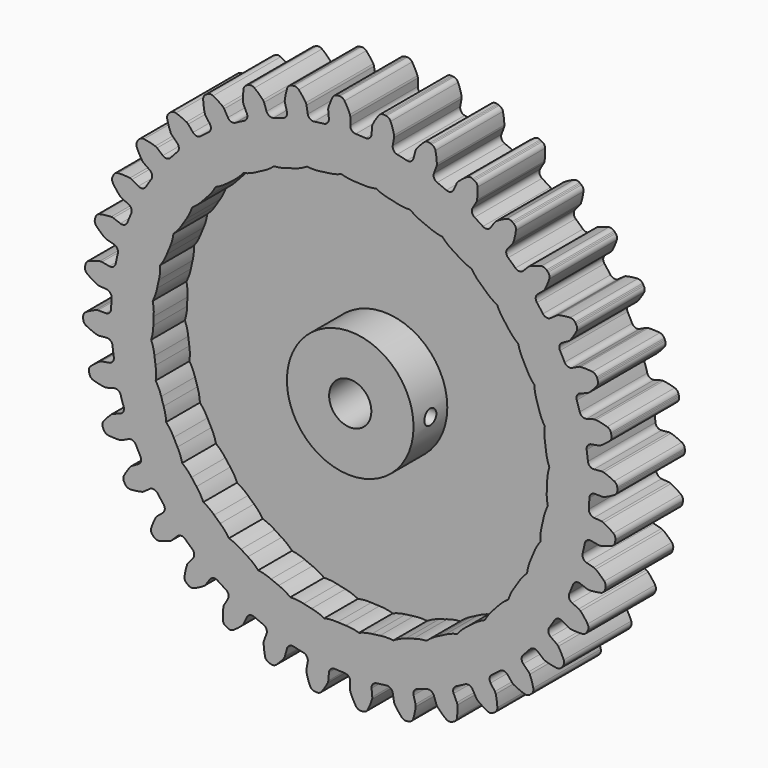
from build123d import *

# Parameters (mm, degrees)
F1_DEPTH = 12.7
F2_R     = 3.175
F3_DEPTH = 25.4
F4_T     = -6.35
F6_R     = 1.1303
F7_DEPTH = 9.525


with BuildPart() as f1:
    # F0 (on Front) → F1 (new body)
    with BuildSketch(Plane.XZ):
        with BuildLine():
            ThreePointArc((-3.2120801998, 36.6749702764), (-3.3974769304, 36.0684054215), (-3.9546626099, 35.765359238))
            ThreePointArc((-3.9546626099, 35.765359238), (-4.6967674834, 35.6754909284), (-5.4368453766, 35.5702261748))
            ThreePointArc((-5.4368453766, 35.5702261748), (-6.0534795383, 35.7187360446), (-6.389549565, 36.2566484984))
            Line((-6.389549565, 36.2566484984), (-6.5801038088, 37.3639547249))
            ThreePointArc((-6.5801038088, 37.3639547249), (-6.623115967, 37.5208300511), (-6.6956184881, 37.6664435743))
            ThreePointArc((-6.6956184881, 37.6664435743), (-7.1899476026, 38.3815935988), (-7.7474230194, 39.0486932845))
            ThreePointArc((-7.7474230194, 39.0486932845), (-8.1070425479, 39.2797993226), (-8.5338610146, 39.3035101356))
            Line((-8.5338610146, 39.3035101356), (-8.705568784, 39.2682831434))
            Line((-8.705568784, 39.2682831434), (-8.8760764428, 39.2276428016))
            ThreePointArc((-8.8760764428, 39.2276428016), (-9.2528847203, 39.0257722288), (-9.4811410672, 38.6643372468))
            ThreePointArc((-9.4811410672, 38.6643372468), (-9.704456869, 37.8241403153), (-9.8502357345, 36.9670817681))
            ThreePointArc((-9.8502357345, 36.9670817681), (-9.8544063999, 36.8044702087), (-9.8270902762, 36.6441151555))
            Line((-9.8270902762, 36.6441151555), (-9.5318232385, 35.5600231964))
            ThreePointArc((-9.5318232385, 35.5600231964), (-9.6090744945, 34.9304796203), (-10.105171854, 34.5352831113))
            ThreePointArc((-10.105171854, 34.5352831113), (-10.8203970188, 34.3179149444), (-11.5309524332, 34.0857362215))
            ThreePointArc((-11.5309524332, 34.0857362215), (-12.1640070047, 34.1249124941), (-12.58837889, 34.5962949014))
            Line((-12.58837889, 34.5962949014), (-12.968319895, 35.653689261))
            ThreePointArc((-12.968319895, 35.653689261), (-13.0379197163, 35.8007123156), (-13.1346062842, 35.9315237115))
            ThreePointArc((-13.1346062842, 35.9315237115), (-13.7456099271, 36.5499696504), (-14.4104566845, 37.1101300027))
            ThreePointArc((-14.4104566845, 37.1101300027), (-14.8047439267, 37.275277745), (-15.2291954012, 37.2245120884))
            Line((-15.2291954012, 37.2245120884), (-15.3921774409, 37.1600035322))
            Line((-15.3921774409, 37.1600035322), (-15.5530375839, 37.0903722643))
            ThreePointArc((-15.5530375839, 37.0903722643), (-15.8890668398, 36.8261364883), (-16.051092934, 36.4305562172))
            ThreePointArc((-16.051092934, 36.4305562172), (-16.1251174009, 35.564345383), (-16.119854903, 34.6949932465))
            ThreePointArc((-16.119854903, 34.6949932465), (-16.0957250057, 34.5341278937), (-16.0409785125, 34.3809523891))
            Line((-16.0409785125, 34.3809523891), (-15.5619466515, 33.3646028059))
            ThreePointArc((-15.5619466515, 33.3646028059), (-15.5287051926, 32.7312088715), (-15.9486405649, 32.255869883))
            ThreePointArc((-15.9486405649, 32.255869883), (-16.6152542662, 31.9176064805), (-17.2746973352, 31.5655684212))
            ThreePointArc((-17.2746973352, 31.5655684212), (-17.9049372736, 31.4942207456), (-18.4047166923, 31.8847503904))
            Line((-18.4047166923, 31.8847503904), (-18.9625001434, 32.8601044906))
            ThreePointArc((-18.9625001434, 32.8601044906), (-19.0565728726, 32.9928080524), (-19.1745057147, 33.104842683))
            ThreePointArc((-19.1745057147, 33.104842683), (-19.8836188497, 33.6077933693), (-20.6356359153, 34.0439941993))
            ThreePointArc((-20.6356359153, 34.0439941993), (-21.0526106528, 34.1381657152), (-21.461798392, 34.014466078))
            Line((-21.461798392, 34.014466078), (-21.611102575, 33.9226360175))
            Line((-21.611102575, 33.9226360175), (-21.7574275482, 33.8261295344))
            ThreePointArc((-21.7574275482, 33.8261295344), (-22.0424677037, 33.5075572256), (-22.1333404643, 33.0898511717))
            ThreePointArc((-22.1333404643, 33.0898511717), (-22.0558244003, 32.2239458126), (-21.8996804374, 31.3687149117))
            ThreePointArc((-21.8996804374, 31.3687149117), (-21.847983152, 31.2144835777), (-21.7674697338, 31.0731417821))
            Line((-21.7674697338, 31.0731417821), (-21.1192281902, 30.1554158425))
            ThreePointArc((-21.1192281902, 30.1554158425), (-20.9765040412, 29.5374169039), (-21.3075179025, 28.9963783706))
            ThreePointArc((-21.3075179025, 28.9963783706), (-21.9052654205, 28.5474976948), (-22.4935593, 28.0862967975))
            ThreePointArc((-22.4935593, 28.0862967975), (-23.1018350838, 27.9065930365), (-23.6618364913, 28.2044038732))
            Line((-23.6618364913, 28.2044038732), (-24.3805144205, 29.0680820732))
            ThreePointArc((-24.3805144205, 29.0680820732), (-24.4962017052, 29.1824340118), (-24.6317974919, 29.2722877615))
            ThreePointArc((-24.6317974919, 29.2722877615), (-25.4174740751, 29.644461293), (-26.2338117909, 29.9434488593))
            ThreePointArc((-26.2338117909, 29.9434488593), (-26.6608044573, 29.963782795), (-27.0422954987, 29.770907728))
            Line((-27.0422954987, 29.770907728), (-27.1733852931, 29.6545463732))
            Line((-27.1733852931, 29.6545463732), (-27.3007290862, 29.5340969754))
            ThreePointArc((-27.3007290862, 29.5340969754), (-27.5261193404, 29.1708677923), (-27.5430776445, 28.7437277426))
            ThreePointArc((-27.5430776445, 28.7437277426), (-27.3163763361, 27.9044379549), (-27.0140952634, 27.0893140476))
            ThreePointArc((-27.0140952634, 27.0893140476), (-26.9364013858, 26.9464029736), (-26.8325674022, 26.8211894857))
            Line((-26.8325674022, 26.8211894857), (-26.0348126671, 26.029971828))
            ThreePointArc((-26.0348126671, 26.029971828), (-25.7869424292, 25.4461454703), (-26.0189770909, 24.8558465743))
            ThreePointArc((-26.0189770909, 24.8558465743), (-26.5296961696, 24.3099876374), (-27.0289658477, 23.7536372579))
            ThreePointArc((-27.0289658477, 23.7536372579), (-27.596795325, 23.4710376195), (-28.2000033619, 23.6670808165))
            Line((-28.2000033619, 23.6670808165), (-29.057739104, 24.3928406912))
            ThreePointArc((-29.057739104, 24.3928406912), (-29.1915258447, 24.4853664807), (-29.3406645665, 24.5503091888))
            ThreePointArc((-29.3406645665, 24.5503091888), (-30.1790322126, 24.7803972612), (-31.0348865702, 24.9330869778))
            ThreePointArc((-31.0348865702, 24.9330869778), (-31.4589232095, 24.8789654969), (-31.8011261409, 24.6227754115))
            Line((-31.8011261409, 24.6227754115), (-31.9100184494, 24.4854183432))
            Line((-31.9100184494, 24.4854183432), (-32.0145117858, 24.3446858248))
            ThreePointArc((-32.0145117858, 24.3446858248), (-32.1734037699, 23.9478363022), (-32.115932348, 23.5242406911))
            ThreePointArc((-32.115932348, 23.5242406911), (-31.7469339997, 22.7370678702), (-31.3077004746, 21.9868180841))
            ThreePointArc((-31.3077004746, 21.9868180841), (-31.2063706941, 21.8595695506), (-31.0823710879, 21.7542889191))
            Line((-31.0823710879, 21.7542889191), (-30.1593425355, 21.1136202914))
            ThreePointArc((-30.1593425355, 21.1136202914), (-29.8138576204, 20.581705783), (-29.9398628265, 19.9600824574))
            ThreePointArc((-29.9398628265, 19.9600824574), (-30.3480355252, 19.333830907), (-30.7431109456, 18.6992354701))
            ThreePointArc((-30.7431109456, 18.6992354701), (-31.2532409049, 18.3223266013), (-31.8813274002, 18.4106454852))
            Line((-31.8813274002, 18.4106454852), (-32.8520590888, 18.9764351882))
            ThreePointArc((-32.8520590888, 18.9764351882), (-32.999880243, 19.0443234793), (-33.1580303955, 19.0823818944))
            ThreePointArc((-33.1580303955, 19.0823818944), (-34.0236157276, 19.1633933981), (-34.8929820255, 19.1651458653))
            ThreePointArc((-34.8929820255, 19.1651458653), (-35.3011784989, 19.0382134216), (-35.5936956574, 18.7264925238))
            Line((-35.5936956574, 18.7264925238), (-35.6770818425, 18.572313267))
            Line((-35.6770818425, 18.572313267), (-35.7555497449, 18.4155737144))
            ThreePointArc((-35.7555497449, 18.4155737144), (-35.8431156063, 17.9971619243), (-35.7129606985, 17.58998149))
            ThreePointArc((-35.7129606985, 17.58998149), (-35.2128771384, 16.8788434837), (-34.6500370494, 16.2162637789))
            ThreePointArc((-34.6500370494, 16.2162637789), (-34.5281502199, 16.1085441683), (-34.3877526566, 16.0263952918))
            Line((-34.3877526566, 16.0263952918), (-33.3674960422, 15.5557420862))
            ThreePointArc((-33.3674960422, 15.5557420862), (-32.9348938342, 15.0919013803), (-32.9510409805, 14.4578413354))
            ThreePointArc((-32.9510409805, 14.4578413354), (-33.2442651782, 13.7702255079), (-33.523142174, 13.0766668749))
            ThreePointArc((-33.523142174, 13.0766668749), (-33.9600725748, 12.6169009608), (-34.5939534382, 12.5948120072))
            Line((-34.5939534382, 12.5948120072), (-35.6481858821, 12.9834403045))
            ThreePointArc((-35.6481858821, 12.9834403045), (-35.8055499788, 13.0246283459), (-35.9679062496, 13.0346460824))
            ThreePointArc((-35.9679062496, 13.0346460824), (-36.8344088956, 12.9641195237), (-37.6908718787, 12.8148814936))
            ThreePointArc((-37.6908718787, 12.8148814936), (-38.0708253429, 12.6189948653), (-38.3047687426, 12.2612146368))
            Line((-38.3047687426, 12.2612146368), (-38.3601151572, 12.0948978503))
            Line((-38.3601151572, 12.0948978503), (-38.4101734182, 11.9269137154))
            ThreePointArc((-38.4101734182, 11.9269137154), (-38.4237525125, 11.4996528884), (-38.2248688098, 11.1212596023))
            ThreePointArc((-38.2248688098, 11.1212596023), (-37.6088948238, 10.5077639792), (-36.9395497822, 9.9529865047))
            ThreePointArc((-36.9395497822, 9.9529865047), (-36.8008093735, 9.8680688228), (-36.6482797619, 9.8115477533))
            Line((-36.6482797619, 9.8115477533), (-35.5617950665, 9.5252105293))
            ThreePointArc((-35.5617950665, 9.5252105293), (-35.0552199648, 9.143537191), (-34.9610184283, 8.5163060204))
            ThreePointArc((-34.9610184283, 8.5163060204), (-35.1303846562, 7.7882187749), (-35.2845896911, 7.0567703737))
            ThreePointArc((-35.2845896911, 7.0567703737), (-35.6350446242, 6.5281171692), (-36.2554597064, 6.3962915395))
            Line((-36.2554597064, 6.3962915395), (-37.3611605862, 6.5959501571))
            ThreePointArc((-37.3611605862, 6.5959501571), (-37.5232861971, 6.6091864709), (-37.6849154729, 6.590859145))
            ThreePointArc((-37.6849154729, 6.590859145), (-38.5260071883, 6.3709374378), (-39.3435436623, 6.0752434325))
            ThreePointArc((-39.3435436623, 6.0752434325), (-39.6837094236, 5.8163545355), (-39.8519708127, 5.4233859476))
            Line((-39.8519708127, 5.4233859476), (-39.877595784, 5.2499850827))
            Line((-39.877595784, 5.2499850827), (-39.8977234087, 5.0758604785))
            ThreePointArc((-39.8977234087, 5.0758604785), (-39.836903142, 4.6527327185), (-39.5753336251, 4.3146238692))
            ThreePointArc((-39.5753336251, 4.3146238692), (-38.8621852711, 3.8174113833), (-38.1066729871, 3.3872927719))
            ThreePointArc((-38.1066729871, 3.3872927719), (-37.9552945563, 3.3277571996), (-37.7952674315, 3.2985813012))
            Line((-37.7952674315, 3.2985813012), (-36.6755669429, 3.2052602705))
            ThreePointArc((-36.6755669429, 3.2052602705), (-36.1104109755, 2.9173512511), (-35.9087230223, 2.3160070565))
            ThreePointArc((-35.9087230223, 2.3160070565), (-35.9490851733, 1.5695709554), (-35.9739328053, 0.8224574757))
            ThreePointArc((-35.9739328053, 0.8224574757), (-36.2272638749, 0.2409798407), (-36.8153621776, 0.0034229902))
            Line((-36.8153621776, 0.0034229902), (-37.9389353316, 0.0080454019))
            ThreePointArc((-37.9389353316, 0.0080454019), (-38.1008963519, -0.0070721905), (-38.2568876091, -0.0531877124))
            ThreePointArc((-38.2568876091, -0.0531877124), (-39.0470122478, -0.4158223584), (-39.8007817805, -0.8489878262))
            ThreePointArc((-39.8007817805, -0.8489878262), (-40.0908240744, -1.1630127837), (-40.1882909157, -1.5792295793))
            Line((-40.1882909157, -1.5792295793), (-40.183415842, -1.7544458249))
            Line((-40.183415842, -1.7544458249), (-40.1730012626, -1.9294202105))
            ThreePointArc((-40.1730012626, -1.9294202105), (-40.039629628, -2.3355583807), (-39.7233219543, -2.6231095268))
            ThreePointArc((-39.7233219543, -2.6231095268), (-38.9346678841, -2.9889313258), (-38.1159442163, -3.2813221377))
            ThreePointArc((-38.1159442163, -3.2813221377), (-37.9565273203, -3.3136666422), (-37.7938650256, -3.3146108745))
            Line((-37.7938650256, -3.3146108745), (-36.6749702764, -3.2120801998))
            ThreePointArc((-36.6749702764, -3.2120801998), (-36.0684054215, -3.3974769304), (-35.765359238, -3.9546626099))
            ThreePointArc((-35.765359238, -3.9546626099), (-35.6754909284, -4.6967674834), (-35.5702261748, -5.4368453766))
            ThreePointArc((-35.5702261748, -5.4368453766), (-35.7187360446, -6.0534795383), (-36.2566484984, -6.389549565))
            Line((-36.2566484984, -6.389549565), (-37.3639547249, -6.5801038088))
            ThreePointArc((-37.3639547249, -6.5801038088), (-37.5208300511, -6.623115967), (-37.6664435743, -6.6956184881))
            ThreePointArc((-37.6664435743, -6.6956184881), (-38.3815935988, -7.1899476026), (-39.0486932845, -7.7474230194))
            ThreePointArc((-39.0486932845, -7.7474230194), (-39.2797993226, -8.1070425479), (-39.3035101356, -8.5338610146))
            Line((-39.3035101356, -8.5338610146), (-39.2682831434, -8.705568784))
            Line((-39.2682831434, -8.705568784), (-39.2276428016, -8.8760764428))
            ThreePointArc((-39.2276428016, -8.8760764428), (-39.0257722288, -9.2528847203), (-38.6643372468, -9.4811410672))
            ThreePointArc((-38.6643372468, -9.4811410672), (-37.8241403153, -9.704456869), (-36.9670817681, -9.8502357345))
            ThreePointArc((-36.9670817681, -9.8502357345), (-36.8044702087, -9.8544063999), (-36.6441151555, -9.8270902762))
            Line((-36.6441151555, -9.8270902762), (-35.5600231964, -9.5318232385))
            ThreePointArc((-35.5600231964, -9.5318232385), (-34.9304796203, -9.6090744945), (-34.5352831113, -10.105171854))
            ThreePointArc((-34.5352831113, -10.105171854), (-34.3179149444, -10.8203970188), (-34.0857362215, -11.5309524332))
            ThreePointArc((-34.0857362215, -11.5309524332), (-34.1249124941, -12.1640070047), (-34.5962949014, -12.58837889))
            Line((-34.5962949014, -12.58837889), (-35.653689261, -12.968319895))
            ThreePointArc((-35.653689261, -12.968319895), (-35.8007123156, -13.0379197163), (-35.9315237115, -13.1346062842))
            ThreePointArc((-35.9315237115, -13.1346062842), (-36.5499696504, -13.7456099271), (-37.1101300027, -14.4104566845))
            ThreePointArc((-37.1101300027, -14.4104566845), (-37.275277745, -14.8047439267), (-37.2245120884, -15.2291954012))
            Line((-37.2245120884, -15.2291954012), (-37.1600035322, -15.3921774409))
            Line((-37.1600035322, -15.3921774409), (-37.0903722643, -15.5530375839))
            ThreePointArc((-37.0903722643, -15.5530375839), (-36.8261364883, -15.8890668398), (-36.4305562172, -16.051092934))
            ThreePointArc((-36.4305562172, -16.051092934), (-35.564345383, -16.1251174009), (-34.6949932465, -16.119854903))
            ThreePointArc((-34.6949932465, -16.119854903), (-34.5341278937, -16.0957250057), (-34.3809523891, -16.0409785125))
            Line((-34.3809523891, -16.0409785125), (-33.3646028059, -15.5619466515))
            ThreePointArc((-33.3646028059, -15.5619466515), (-32.7312088715, -15.5287051926), (-32.255869883, -15.9486405649))
            ThreePointArc((-32.255869883, -15.9486405649), (-31.9176064805, -16.6152542662), (-31.5655684212, -17.2746973352))
            ThreePointArc((-31.5655684212, -17.2746973352), (-31.4942207456, -17.9049372736), (-31.8847503904, -18.4047166923))
            Line((-31.8847503904, -18.4047166923), (-32.8601044906, -18.9625001434))
            ThreePointArc((-32.8601044906, -18.9625001434), (-32.9928080524, -19.0565728726), (-33.104842683, -19.1745057147))
            ThreePointArc((-33.104842683, -19.1745057147), (-33.6077933693, -19.8836188497), (-34.0439941993, -20.6356359153))
            ThreePointArc((-34.0439941993, -20.6356359153), (-34.1381657152, -21.0526106528), (-34.014466078, -21.461798392))
            Line((-34.014466078, -21.461798392), (-33.9226360175, -21.611102575))
            Line((-33.9226360175, -21.611102575), (-33.8261295344, -21.7574275482))
            ThreePointArc((-33.8261295344, -21.7574275482), (-33.5075572256, -22.0424677037), (-33.0898511717, -22.1333404643))
            ThreePointArc((-33.0898511717, -22.1333404643), (-32.2239458126, -22.0558244003), (-31.3687149117, -21.8996804374))
            ThreePointArc((-31.3687149117, -21.8996804374), (-31.2144835777, -21.847983152), (-31.0731417821, -21.7674697338))
            Line((-31.0731417821, -21.7674697338), (-30.1554158425, -21.1192281902))
            ThreePointArc((-30.1554158425, -21.1192281902), (-29.5374169039, -20.9765040412), (-28.9963783706, -21.3075179025))
            ThreePointArc((-28.9963783706, -21.3075179025), (-28.5474976948, -21.9052654205), (-28.0862967975, -22.4935593))
            ThreePointArc((-28.0862967975, -22.4935593), (-27.9065930365, -23.1018350838), (-28.2044038732, -23.6618364913))
            Line((-28.2044038732, -23.6618364913), (-29.0680820732, -24.3805144205))
            ThreePointArc((-29.0680820732, -24.3805144205), (-29.1824340118, -24.4962017052), (-29.2722877615, -24.6317974919))
            ThreePointArc((-29.2722877615, -24.6317974919), (-29.644461293, -25.4174740751), (-29.9434488593, -26.2338117909))
            ThreePointArc((-29.9434488593, -26.2338117909), (-29.963782795, -26.6608044573), (-29.770907728, -27.0422954987))
            Line((-29.770907728, -27.0422954987), (-29.6545463732, -27.1733852931))
            Line((-29.6545463732, -27.1733852931), (-29.5340969754, -27.3007290862))
            ThreePointArc((-29.5340969754, -27.3007290862), (-29.1708677923, -27.5261193404), (-28.7437277426, -27.5430776445))
            ThreePointArc((-28.7437277426, -27.5430776445), (-27.9044379549, -27.3163763361), (-27.0893140476, -27.0140952634))
            ThreePointArc((-27.0893140476, -27.0140952634), (-26.9464029736, -26.9364013858), (-26.8211894857, -26.8325674022))
            Line((-26.8211894857, -26.8325674022), (-26.029971828, -26.0348126671))
            ThreePointArc((-26.029971828, -26.0348126671), (-25.4461454703, -25.7869424292), (-24.8558465743, -26.0189770909))
            ThreePointArc((-24.8558465743, -26.0189770909), (-24.3099876374, -26.5296961696), (-23.7536372579, -27.0289658477))
            ThreePointArc((-23.7536372579, -27.0289658477), (-23.4710376195, -27.596795325), (-23.6670808165, -28.2000033619))
            Line((-23.6670808165, -28.2000033619), (-24.3928406912, -29.057739104))
            ThreePointArc((-24.3928406912, -29.057739104), (-24.4853664807, -29.1915258447), (-24.5503091888, -29.3406645665))
            ThreePointArc((-24.5503091888, -29.3406645665), (-24.7803972612, -30.1790322126), (-24.9330869778, -31.0348865702))
            ThreePointArc((-24.9330869778, -31.0348865702), (-24.8789654969, -31.4589232095), (-24.6227754115, -31.8011261409))
            Line((-24.6227754115, -31.8011261409), (-24.4854183432, -31.9100184494))
            Line((-24.4854183432, -31.9100184494), (-24.3446858248, -32.0145117858))
            ThreePointArc((-24.3446858248, -32.0145117858), (-23.9478363022, -32.1734037699), (-23.5242406911, -32.115932348))
            ThreePointArc((-23.5242406911, -32.115932348), (-22.7370678702, -31.7469339997), (-21.9868180841, -31.3077004746))
            ThreePointArc((-21.9868180841, -31.3077004746), (-21.8595695506, -31.2063706941), (-21.7542889191, -31.0823710879))
            Line((-21.7542889191, -31.0823710879), (-21.1136202914, -30.1593425355))
            ThreePointArc((-21.1136202914, -30.1593425355), (-20.581705783, -29.8138576204), (-19.9600824574, -29.9398628265))
            ThreePointArc((-19.9600824574, -29.9398628265), (-19.333830907, -30.3480355252), (-18.6992354701, -30.7431109456))
            ThreePointArc((-18.6992354701, -30.7431109456), (-18.3223266013, -31.2532409049), (-18.4106454852, -31.8813274002))
            Line((-18.4106454852, -31.8813274002), (-18.9764351882, -32.8520590888))
            ThreePointArc((-18.9764351882, -32.8520590888), (-19.0443234793, -32.999880243), (-19.0823818944, -33.1580303955))
            ThreePointArc((-19.0823818944, -33.1580303955), (-19.1633933981, -34.0236157276), (-19.1651458653, -34.8929820255))
            ThreePointArc((-19.1651458653, -34.8929820255), (-19.0382134216, -35.3011784989), (-18.7264925238, -35.5936956574))
            Line((-18.7264925238, -35.5936956574), (-18.572313267, -35.6770818425))
            Line((-18.572313267, -35.6770818425), (-18.4155737144, -35.7555497449))
            ThreePointArc((-18.4155737144, -35.7555497449), (-17.9971619243, -35.8431156063), (-17.58998149, -35.7129606985))
            ThreePointArc((-17.58998149, -35.7129606985), (-16.8788434837, -35.2128771384), (-16.2162637789, -34.6500370494))
            ThreePointArc((-16.2162637789, -34.6500370494), (-16.1085441683, -34.5281502199), (-16.0263952918, -34.3877526566))
            Line((-16.0263952918, -34.3877526566), (-15.5557420862, -33.3674960422))
            ThreePointArc((-15.5557420862, -33.3674960422), (-15.0919013803, -32.9348938342), (-14.4578413354, -32.9510409805))
            ThreePointArc((-14.4578413354, -32.9510409805), (-13.7702255079, -33.2442651782), (-13.0766668749, -33.523142174))
            ThreePointArc((-13.0766668749, -33.523142174), (-12.6169009608, -33.9600725748), (-12.5948120072, -34.5939534382))
            Line((-12.5948120072, -34.5939534382), (-12.9834403045, -35.6481858821))
            ThreePointArc((-12.9834403045, -35.6481858821), (-13.0246283459, -35.8055499788), (-13.0346460824, -35.9679062496))
            ThreePointArc((-13.0346460824, -35.9679062496), (-12.9641195237, -36.8344088956), (-12.8148814936, -37.6908718787))
            ThreePointArc((-12.8148814936, -37.6908718787), (-12.6189948653, -38.0708253429), (-12.2612146368, -38.3047687426))
            Line((-12.2612146368, -38.3047687426), (-12.0948978503, -38.3601151572))
            Line((-12.0948978503, -38.3601151572), (-11.9269137154, -38.4101734182))
            ThreePointArc((-11.9269137154, -38.4101734182), (-11.4996528884, -38.4237525125), (-11.1212596023, -38.2248688098))
            ThreePointArc((-11.1212596023, -38.2248688098), (-10.5077639792, -37.6088948238), (-9.9529865047, -36.9395497822))
            ThreePointArc((-9.9529865047, -36.9395497822), (-9.8680688228, -36.8008093735), (-9.8115477533, -36.6482797619))
            Line((-9.8115477533, -36.6482797619), (-9.5252105293, -35.5617950665))
            ThreePointArc((-9.5252105293, -35.5617950665), (-9.143537191, -35.0552199648), (-8.5163060204, -34.9610184283))
            ThreePointArc((-8.5163060204, -34.9610184283), (-7.7882187749, -35.1303846562), (-7.0567703737, -35.2845896911))
            ThreePointArc((-7.0567703737, -35.2845896911), (-6.5281171692, -35.6350446242), (-6.3962915395, -36.2554597064))
            Line((-6.3962915395, -36.2554597064), (-6.5959501571, -37.3611605862))
            ThreePointArc((-6.5959501571, -37.3611605862), (-6.6091864709, -37.5232861971), (-6.590859145, -37.6849154729))
            ThreePointArc((-6.590859145, -37.6849154729), (-6.3709374378, -38.5260071883), (-6.0752434325, -39.3435436623))
            ThreePointArc((-6.0752434325, -39.3435436623), (-5.8163545355, -39.6837094236), (-5.4233859476, -39.8519708127))
            Line((-5.4233859476, -39.8519708127), (-5.2499850827, -39.877595784))
            Line((-5.2499850827, -39.877595784), (-5.0758604785, -39.8977234087))
            ThreePointArc((-5.0758604785, -39.8977234087), (-4.6527327185, -39.836903142), (-4.3146238692, -39.5753336251))
            ThreePointArc((-4.3146238692, -39.5753336251), (-3.8174113833, -38.8621852711), (-3.3872927719, -38.1066729871))
            ThreePointArc((-3.3872927719, -38.1066729871), (-3.3277571996, -37.9552945563), (-3.2985813012, -37.7952674315))
            Line((-3.2985813012, -37.7952674315), (-3.2052602705, -36.6755669429))
            ThreePointArc((-3.2052602705, -36.6755669429), (-2.9173512511, -36.1104109755), (-2.3160070565, -35.9087230223))
            ThreePointArc((-2.3160070565, -35.9087230223), (-1.5695709554, -35.9490851733), (-0.8224574757, -35.9739328053))
            ThreePointArc((-0.8224574757, -35.9739328053), (-0.2409798407, -36.2272638749), (-0.0034229902, -36.8153621776))
            Line((-0.0034229902, -36.8153621776), (-0.0080454019, -37.9389353316))
            ThreePointArc((-0.0080454019, -37.9389353316), (0.0070721905, -38.1008963519), (0.0531877124, -38.2568876091))
            ThreePointArc((0.0531877124, -38.2568876091), (0.4158223584, -39.0470122478), (0.8489878262, -39.8007817805))
            ThreePointArc((0.8489878262, -39.8007817805), (1.1630127837, -40.0908240744), (1.5792295793, -40.1882909157))
            Line((1.5792295793, -40.1882909157), (1.7544458249, -40.183415842))
            Line((1.7544458249, -40.183415842), (1.9294202105, -40.1730012626))
            ThreePointArc((1.9294202105, -40.1730012626), (2.3355583807, -40.039629628), (2.6231095268, -39.7233219543))
            ThreePointArc((2.6231095268, -39.7233219543), (2.9889313258, -38.9346678841), (3.2813221377, -38.1159442163))
            ThreePointArc((3.2813221377, -38.1159442163), (3.3136666422, -37.9565273203), (3.3146108745, -37.7938650256))
            Line((3.3146108745, -37.7938650256), (3.2120801998, -36.6749702764))
            ThreePointArc((3.2120801998, -36.6749702764), (3.3974769304, -36.0684054215), (3.9546626099, -35.765359238))
            ThreePointArc((3.9546626099, -35.765359238), (4.6967674834, -35.6754909284), (5.4368453766, -35.5702261748))
            ThreePointArc((5.4368453766, -35.5702261748), (6.0534795383, -35.7187360446), (6.389549565, -36.2566484984))
            Line((6.389549565, -36.2566484984), (6.5801038088, -37.3639547249))
            ThreePointArc((6.5801038088, -37.3639547249), (6.623115967, -37.5208300511), (6.6956184881, -37.6664435743))
            ThreePointArc((6.6956184881, -37.6664435743), (7.1899476026, -38.3815935988), (7.7474230194, -39.0486932845))
            ThreePointArc((7.7474230194, -39.0486932845), (8.1070425479, -39.2797993226), (8.5338610146, -39.3035101356))
            Line((8.5338610146, -39.3035101356), (8.705568784, -39.2682831434))
            Line((8.705568784, -39.2682831434), (8.8760764428, -39.2276428016))
            ThreePointArc((8.8760764428, -39.2276428016), (9.2528847203, -39.0257722288), (9.4811410672, -38.6643372468))
            ThreePointArc((9.4811410672, -38.6643372468), (9.704456869, -37.8241403153), (9.8502357345, -36.9670817681))
            ThreePointArc((9.8502357345, -36.9670817681), (9.8544063999, -36.8044702087), (9.8270902762, -36.6441151555))
            Line((9.8270902762, -36.6441151555), (9.5318232385, -35.5600231964))
            ThreePointArc((9.5318232385, -35.5600231964), (9.6090744945, -34.9304796203), (10.105171854, -34.5352831113))
            ThreePointArc((10.105171854, -34.5352831113), (10.8203970188, -34.3179149444), (11.5309524332, -34.0857362215))
            ThreePointArc((11.5309524332, -34.0857362215), (12.1640070047, -34.1249124941), (12.58837889, -34.5962949014))
            Line((12.58837889, -34.5962949014), (12.968319895, -35.653689261))
            ThreePointArc((12.968319895, -35.653689261), (13.0379197163, -35.8007123156), (13.1346062842, -35.9315237115))
            ThreePointArc((13.1346062842, -35.9315237115), (13.7456099271, -36.5499696504), (14.4104566845, -37.1101300027))
            ThreePointArc((14.4104566845, -37.1101300027), (14.8047439267, -37.275277745), (15.2291954012, -37.2245120884))
            Line((15.2291954012, -37.2245120884), (15.3921774409, -37.1600035322))
            Line((15.3921774409, -37.1600035322), (15.5530375839, -37.0903722643))
            ThreePointArc((15.5530375839, -37.0903722643), (15.8890668398, -36.8261364883), (16.051092934, -36.4305562172))
            ThreePointArc((16.051092934, -36.4305562172), (16.1251174009, -35.564345383), (16.119854903, -34.6949932465))
            ThreePointArc((16.119854903, -34.6949932465), (16.0957250057, -34.5341278937), (16.0409785125, -34.3809523891))
            Line((16.0409785125, -34.3809523891), (15.5619466515, -33.3646028059))
            ThreePointArc((15.5619466515, -33.3646028059), (15.5287051926, -32.7312088715), (15.9486405649, -32.255869883))
            ThreePointArc((15.9486405649, -32.255869883), (16.6152542662, -31.9176064805), (17.2746973352, -31.5655684212))
            ThreePointArc((17.2746973352, -31.5655684212), (17.9049372736, -31.4942207456), (18.4047166923, -31.8847503904))
            Line((18.4047166923, -31.8847503904), (18.9625001434, -32.8601044906))
            ThreePointArc((18.9625001434, -32.8601044906), (19.0565728726, -32.9928080524), (19.1745057147, -33.104842683))
            ThreePointArc((19.1745057147, -33.104842683), (19.8836188497, -33.6077933693), (20.6356359153, -34.0439941993))
            ThreePointArc((20.6356359153, -34.0439941993), (21.0526106528, -34.1381657152), (21.461798392, -34.014466078))
            Line((21.461798392, -34.014466078), (21.611102575, -33.9226360175))
            Line((21.611102575, -33.9226360175), (21.7574275482, -33.8261295344))
            ThreePointArc((21.7574275482, -33.8261295344), (22.0424677037, -33.5075572256), (22.1333404643, -33.0898511717))
            ThreePointArc((22.1333404643, -33.0898511717), (22.0558244003, -32.2239458126), (21.8996804374, -31.3687149117))
            ThreePointArc((21.8996804374, -31.3687149117), (21.847983152, -31.2144835777), (21.7674697338, -31.0731417821))
            Line((21.7674697338, -31.0731417821), (21.1192281902, -30.1554158425))
            ThreePointArc((21.1192281902, -30.1554158425), (20.9765040412, -29.5374169039), (21.3075179025, -28.9963783706))
            ThreePointArc((21.3075179025, -28.9963783706), (21.9052654205, -28.5474976948), (22.4935593, -28.0862967975))
            ThreePointArc((22.4935593, -28.0862967975), (23.1018350838, -27.9065930365), (23.6618364913, -28.2044038732))
            Line((23.6618364913, -28.2044038732), (24.3805144205, -29.0680820732))
            ThreePointArc((24.3805144205, -29.0680820732), (24.4962017052, -29.1824340118), (24.6317974919, -29.2722877615))
            ThreePointArc((24.6317974919, -29.2722877615), (25.4174740751, -29.644461293), (26.2338117909, -29.9434488593))
            ThreePointArc((26.2338117909, -29.9434488593), (26.6608044573, -29.963782795), (27.0422954987, -29.770907728))
            Line((27.0422954987, -29.770907728), (27.1733852931, -29.6545463732))
            Line((27.1733852931, -29.6545463732), (27.3007290862, -29.5340969754))
            ThreePointArc((27.3007290862, -29.5340969754), (27.5261193404, -29.1708677923), (27.5430776445, -28.7437277426))
            ThreePointArc((27.5430776445, -28.7437277426), (27.3163763361, -27.9044379549), (27.0140952634, -27.0893140476))
            ThreePointArc((27.0140952634, -27.0893140476), (26.9364013858, -26.9464029736), (26.8325674022, -26.8211894857))
            Line((26.8325674022, -26.8211894857), (26.0348126671, -26.029971828))
            ThreePointArc((26.0348126671, -26.029971828), (25.7869424292, -25.4461454703), (26.0189770909, -24.8558465743))
            ThreePointArc((26.0189770909, -24.8558465743), (26.5296961696, -24.3099876374), (27.0289658477, -23.7536372579))
            ThreePointArc((27.0289658477, -23.7536372579), (27.596795325, -23.4710376195), (28.2000033619, -23.6670808165))
            Line((28.2000033619, -23.6670808165), (29.057739104, -24.3928406912))
            ThreePointArc((29.057739104, -24.3928406912), (29.1915258447, -24.4853664807), (29.3406645665, -24.5503091888))
            ThreePointArc((29.3406645665, -24.5503091888), (30.1790322126, -24.7803972612), (31.0348865702, -24.9330869778))
            ThreePointArc((31.0348865702, -24.9330869778), (31.4589232095, -24.8789654969), (31.8011261409, -24.6227754115))
            Line((31.8011261409, -24.6227754115), (31.9100184494, -24.4854183432))
            Line((31.9100184494, -24.4854183432), (32.0145117858, -24.3446858248))
            ThreePointArc((32.0145117858, -24.3446858248), (32.1734037699, -23.9478363022), (32.115932348, -23.5242406911))
            ThreePointArc((32.115932348, -23.5242406911), (31.7469339997, -22.7370678702), (31.3077004746, -21.9868180841))
            ThreePointArc((31.3077004746, -21.9868180841), (31.2063706941, -21.8595695506), (31.0823710879, -21.7542889191))
            Line((31.0823710879, -21.7542889191), (30.1593425355, -21.1136202914))
            ThreePointArc((30.1593425355, -21.1136202914), (29.8138576204, -20.581705783), (29.9398628265, -19.9600824574))
            ThreePointArc((29.9398628265, -19.9600824574), (30.3480355252, -19.333830907), (30.7431109456, -18.6992354701))
            ThreePointArc((30.7431109456, -18.6992354701), (31.2532409049, -18.3223266013), (31.8813274002, -18.4106454852))
            Line((31.8813274002, -18.4106454852), (32.8520590888, -18.9764351882))
            ThreePointArc((32.8520590888, -18.9764351882), (32.999880243, -19.0443234793), (33.1580303955, -19.0823818944))
            ThreePointArc((33.1580303955, -19.0823818944), (34.0236157276, -19.1633933981), (34.8929820255, -19.1651458653))
            ThreePointArc((34.8929820255, -19.1651458653), (35.3011784989, -19.0382134216), (35.5936956574, -18.7264925238))
            Line((35.5936956574, -18.7264925238), (35.6770818425, -18.572313267))
            Line((35.6770818425, -18.572313267), (35.7555497449, -18.4155737144))
            ThreePointArc((35.7555497449, -18.4155737144), (35.8431156063, -17.9971619243), (35.7129606985, -17.58998149))
            ThreePointArc((35.7129606985, -17.58998149), (35.2128771384, -16.8788434837), (34.6500370494, -16.2162637789))
            ThreePointArc((34.6500370494, -16.2162637789), (34.5281502199, -16.1085441683), (34.3877526566, -16.0263952918))
            Line((34.3877526566, -16.0263952918), (33.3674960422, -15.5557420862))
            ThreePointArc((33.3674960422, -15.5557420862), (32.9348938342, -15.0919013803), (32.9510409805, -14.4578413354))
            ThreePointArc((32.9510409805, -14.4578413354), (33.2442651782, -13.7702255079), (33.523142174, -13.0766668749))
            ThreePointArc((33.523142174, -13.0766668749), (33.9600725748, -12.6169009608), (34.5939534382, -12.5948120072))
            Line((34.5939534382, -12.5948120072), (35.6481858821, -12.9834403045))
            ThreePointArc((35.6481858821, -12.9834403045), (35.8055499788, -13.0246283459), (35.9679062496, -13.0346460824))
            ThreePointArc((35.9679062496, -13.0346460824), (36.8344088956, -12.9641195237), (37.6908718787, -12.8148814936))
            ThreePointArc((37.6908718787, -12.8148814936), (38.0708253429, -12.6189948653), (38.3047687426, -12.2612146368))
            Line((38.3047687426, -12.2612146368), (38.3601151572, -12.0948978503))
            Line((38.3601151572, -12.0948978503), (38.4101734182, -11.9269137154))
            ThreePointArc((38.4101734182, -11.9269137154), (38.4237525125, -11.4996528884), (38.2248688098, -11.1212596023))
            ThreePointArc((38.2248688098, -11.1212596023), (37.6088948238, -10.5077639792), (36.9395497822, -9.9529865047))
            ThreePointArc((36.9395497822, -9.9529865047), (36.8008093735, -9.8680688228), (36.6482797619, -9.8115477533))
            Line((36.6482797619, -9.8115477533), (35.5617950665, -9.5252105293))
            ThreePointArc((35.5617950665, -9.5252105293), (35.0552199648, -9.143537191), (34.9610184283, -8.5163060204))
            ThreePointArc((34.9610184283, -8.5163060204), (35.1303846562, -7.7882187749), (35.2845896911, -7.0567703737))
            ThreePointArc((35.2845896911, -7.0567703737), (35.6350446242, -6.5281171692), (36.2554597064, -6.3962915395))
            Line((36.2554597064, -6.3962915395), (37.3611605862, -6.5959501571))
            ThreePointArc((37.3611605862, -6.5959501571), (37.5232861971, -6.6091864709), (37.6849154729, -6.590859145))
            ThreePointArc((37.6849154729, -6.590859145), (38.5260071883, -6.3709374378), (39.3435436623, -6.0752434325))
            ThreePointArc((39.3435436623, -6.0752434325), (39.6837094236, -5.8163545355), (39.8519708127, -5.4233859476))
            Line((39.8519708127, -5.4233859476), (39.877595784, -5.2499850827))
            Line((39.877595784, -5.2499850827), (39.8977234087, -5.0758604785))
            ThreePointArc((39.8977234087, -5.0758604785), (39.836903142, -4.6527327185), (39.5753336251, -4.3146238692))
            ThreePointArc((39.5753336251, -4.3146238692), (38.8621852711, -3.8174113833), (38.1066729871, -3.3872927719))
            ThreePointArc((38.1066729871, -3.3872927719), (37.9552945563, -3.3277571996), (37.7952674315, -3.2985813012))
            Line((37.7952674315, -3.2985813012), (36.6755669429, -3.2052602705))
            ThreePointArc((36.6755669429, -3.2052602705), (36.1104109755, -2.9173512511), (35.9087230223, -2.3160070565))
            ThreePointArc((35.9087230223, -2.3160070565), (35.9490851733, -1.5695709554), (35.9739328053, -0.8224574757))
            ThreePointArc((35.9739328053, -0.8224574757), (36.2272638749, -0.2409798407), (36.8153621776, -0.0034229902))
            Line((36.8153621776, -0.0034229902), (37.9389353316, -0.0080454019))
            ThreePointArc((37.9389353316, -0.0080454019), (38.1008963519, 0.0070721905), (38.2568876091, 0.0531877124))
            ThreePointArc((38.2568876091, 0.0531877124), (39.0470122478, 0.4158223584), (39.8007817805, 0.8489878262))
            ThreePointArc((39.8007817805, 0.8489878262), (40.0908240744, 1.1630127837), (40.1882909157, 1.5792295793))
            Line((40.1882909157, 1.5792295793), (40.183415842, 1.7544458249))
            Line((40.183415842, 1.7544458249), (40.1730012626, 1.9294202105))
            ThreePointArc((40.1730012626, 1.9294202105), (40.039629628, 2.3355583807), (39.7233219543, 2.6231095268))
            ThreePointArc((39.7233219543, 2.6231095268), (38.9346678841, 2.9889313258), (38.1159442163, 3.2813221377))
            ThreePointArc((38.1159442163, 3.2813221377), (37.9565273203, 3.3136666422), (37.7938650256, 3.3146108745))
            Line((37.7938650256, 3.3146108745), (36.6749702764, 3.2120801998))
            ThreePointArc((36.6749702764, 3.2120801998), (36.0684054215, 3.3974769304), (35.765359238, 3.9546626099))
            ThreePointArc((35.765359238, 3.9546626099), (35.6754909284, 4.6967674834), (35.5702261748, 5.4368453766))
            ThreePointArc((35.5702261748, 5.4368453766), (35.7187360446, 6.0534795383), (36.2566484984, 6.389549565))
            Line((36.2566484984, 6.389549565), (37.3639547249, 6.5801038088))
            ThreePointArc((37.3639547249, 6.5801038088), (37.5208300511, 6.623115967), (37.6664435743, 6.6956184881))
            ThreePointArc((37.6664435743, 6.6956184881), (38.3815935988, 7.1899476026), (39.0486932845, 7.7474230194))
            ThreePointArc((39.0486932845, 7.7474230194), (39.2797993226, 8.1070425479), (39.3035101356, 8.5338610146))
            Line((39.3035101356, 8.5338610146), (39.2682831434, 8.705568784))
            Line((39.2682831434, 8.705568784), (39.2276428016, 8.8760764428))
            ThreePointArc((39.2276428016, 8.8760764428), (39.0257722288, 9.2528847203), (38.6643372468, 9.4811410672))
            ThreePointArc((38.6643372468, 9.4811410672), (37.8241403153, 9.704456869), (36.9670817681, 9.8502357345))
            ThreePointArc((36.9670817681, 9.8502357345), (36.8044702087, 9.8544063999), (36.6441151555, 9.8270902762))
            Line((36.6441151555, 9.8270902762), (35.5600231964, 9.5318232385))
            ThreePointArc((35.5600231964, 9.5318232385), (34.9304796203, 9.6090744945), (34.5352831113, 10.105171854))
            ThreePointArc((34.5352831113, 10.105171854), (34.3179149444, 10.8203970188), (34.0857362215, 11.5309524332))
            ThreePointArc((34.0857362215, 11.5309524332), (34.1249124941, 12.1640070047), (34.5962949014, 12.58837889))
            Line((34.5962949014, 12.58837889), (35.653689261, 12.968319895))
            ThreePointArc((35.653689261, 12.968319895), (35.8007123156, 13.0379197163), (35.9315237115, 13.1346062842))
            ThreePointArc((35.9315237115, 13.1346062842), (36.5499696504, 13.7456099271), (37.1101300027, 14.4104566845))
            ThreePointArc((37.1101300027, 14.4104566845), (37.275277745, 14.8047439267), (37.2245120884, 15.2291954012))
            Line((37.2245120884, 15.2291954012), (37.1600035322, 15.3921774409))
            Line((37.1600035322, 15.3921774409), (37.0903722643, 15.5530375839))
            ThreePointArc((37.0903722643, 15.5530375839), (36.8261364883, 15.8890668398), (36.4305562172, 16.051092934))
            ThreePointArc((36.4305562172, 16.051092934), (35.564345383, 16.1251174009), (34.6949932465, 16.119854903))
            ThreePointArc((34.6949932465, 16.119854903), (34.5341278937, 16.0957250057), (34.3809523891, 16.0409785125))
            Line((34.3809523891, 16.0409785125), (33.3646028059, 15.5619466515))
            ThreePointArc((33.3646028059, 15.5619466515), (32.7312088715, 15.5287051926), (32.255869883, 15.9486405649))
            ThreePointArc((32.255869883, 15.9486405649), (31.9176064805, 16.6152542662), (31.5655684212, 17.2746973352))
            ThreePointArc((31.5655684212, 17.2746973352), (31.4942207456, 17.9049372736), (31.8847503904, 18.4047166923))
            Line((31.8847503904, 18.4047166923), (32.8601044906, 18.9625001434))
            ThreePointArc((32.8601044906, 18.9625001434), (32.9928080524, 19.0565728726), (33.104842683, 19.1745057147))
            ThreePointArc((33.104842683, 19.1745057147), (33.6077933693, 19.8836188497), (34.0439941993, 20.6356359153))
            ThreePointArc((34.0439941993, 20.6356359153), (34.1381657152, 21.0526106528), (34.014466078, 21.461798392))
            Line((34.014466078, 21.461798392), (33.9226360175, 21.611102575))
            Line((33.9226360175, 21.611102575), (33.8261295344, 21.7574275482))
            ThreePointArc((33.8261295344, 21.7574275482), (33.5075572256, 22.0424677037), (33.0898511717, 22.1333404643))
            ThreePointArc((33.0898511717, 22.1333404643), (32.2239458126, 22.0558244003), (31.3687149117, 21.8996804374))
            ThreePointArc((31.3687149117, 21.8996804374), (31.2144835777, 21.847983152), (31.0731417821, 21.7674697338))
            Line((31.0731417821, 21.7674697338), (30.1554158425, 21.1192281902))
            ThreePointArc((30.1554158425, 21.1192281902), (29.5374169039, 20.9765040412), (28.9963783706, 21.3075179025))
            ThreePointArc((28.9963783706, 21.3075179025), (28.5474976948, 21.9052654205), (28.0862967975, 22.4935593))
            ThreePointArc((28.0862967975, 22.4935593), (27.9065930365, 23.1018350838), (28.2044038732, 23.6618364913))
            Line((28.2044038732, 23.6618364913), (29.0680820732, 24.3805144205))
            ThreePointArc((29.0680820732, 24.3805144205), (29.1824340118, 24.4962017052), (29.2722877615, 24.6317974919))
            ThreePointArc((29.2722877615, 24.6317974919), (29.644461293, 25.4174740751), (29.9434488593, 26.2338117909))
            ThreePointArc((29.9434488593, 26.2338117909), (29.963782795, 26.6608044573), (29.770907728, 27.0422954987))
            Line((29.770907728, 27.0422954987), (29.6545463732, 27.1733852931))
            Line((29.6545463732, 27.1733852931), (29.5340969754, 27.3007290862))
            ThreePointArc((29.5340969754, 27.3007290862), (29.1708677923, 27.5261193404), (28.7437277426, 27.5430776445))
            ThreePointArc((28.7437277426, 27.5430776445), (27.9044379549, 27.3163763361), (27.0893140476, 27.0140952634))
            ThreePointArc((27.0893140476, 27.0140952634), (26.9464029736, 26.9364013858), (26.8211894857, 26.8325674022))
            Line((26.8211894857, 26.8325674022), (26.029971828, 26.0348126671))
            ThreePointArc((26.029971828, 26.0348126671), (25.4461454703, 25.7869424292), (24.8558465743, 26.0189770909))
            ThreePointArc((24.8558465743, 26.0189770909), (24.3099876374, 26.5296961696), (23.7536372579, 27.0289658477))
            ThreePointArc((23.7536372579, 27.0289658477), (23.4710376195, 27.596795325), (23.6670808165, 28.2000033619))
            Line((23.6670808165, 28.2000033619), (24.3928406912, 29.057739104))
            ThreePointArc((24.3928406912, 29.057739104), (24.4853664807, 29.1915258447), (24.5503091888, 29.3406645665))
            ThreePointArc((24.5503091888, 29.3406645665), (24.7803972612, 30.1790322126), (24.9330869778, 31.0348865702))
            ThreePointArc((24.9330869778, 31.0348865702), (24.8789654969, 31.4589232095), (24.6227754115, 31.8011261409))
            Line((24.6227754115, 31.8011261409), (24.4854183432, 31.9100184494))
            Line((24.4854183432, 31.9100184494), (24.3446858248, 32.0145117858))
            ThreePointArc((24.3446858248, 32.0145117858), (23.9478363022, 32.1734037699), (23.5242406911, 32.115932348))
            ThreePointArc((23.5242406911, 32.115932348), (22.7370678702, 31.7469339997), (21.9868180841, 31.3077004746))
            ThreePointArc((21.9868180841, 31.3077004746), (21.8595695506, 31.2063706941), (21.7542889191, 31.0823710879))
            Line((21.7542889191, 31.0823710879), (21.1136202914, 30.1593425355))
            ThreePointArc((21.1136202914, 30.1593425355), (20.581705783, 29.8138576204), (19.9600824574, 29.9398628265))
            ThreePointArc((19.9600824574, 29.9398628265), (19.333830907, 30.3480355252), (18.6992354701, 30.7431109456))
            ThreePointArc((18.6992354701, 30.7431109456), (18.3223266013, 31.2532409049), (18.4106454852, 31.8813274002))
            Line((18.4106454852, 31.8813274002), (18.9764351882, 32.8520590888))
            ThreePointArc((18.9764351882, 32.8520590888), (19.0443234793, 32.999880243), (19.0823818944, 33.1580303955))
            ThreePointArc((19.0823818944, 33.1580303955), (19.1633933981, 34.0236157276), (19.1651458653, 34.8929820255))
            ThreePointArc((19.1651458653, 34.8929820255), (19.0382134216, 35.3011784989), (18.7264925238, 35.5936956574))
            Line((18.7264925238, 35.5936956574), (18.572313267, 35.6770818425))
            Line((18.572313267, 35.6770818425), (18.4155737144, 35.7555497449))
            ThreePointArc((18.4155737144, 35.7555497449), (17.9971619243, 35.8431156063), (17.58998149, 35.7129606985))
            ThreePointArc((17.58998149, 35.7129606985), (16.8788434837, 35.2128771384), (16.2162637789, 34.6500370494))
            ThreePointArc((16.2162637789, 34.6500370494), (16.1085441683, 34.5281502199), (16.0263952918, 34.3877526566))
            Line((16.0263952918, 34.3877526566), (15.5557420862, 33.3674960422))
            ThreePointArc((15.5557420862, 33.3674960422), (15.0919013803, 32.9348938342), (14.4578413354, 32.9510409805))
            ThreePointArc((14.4578413354, 32.9510409805), (13.7702255079, 33.2442651782), (13.0766668749, 33.523142174))
            ThreePointArc((13.0766668749, 33.523142174), (12.6169009608, 33.9600725748), (12.5948120072, 34.5939534382))
            Line((12.5948120072, 34.5939534382), (12.9834403045, 35.6481858821))
            ThreePointArc((12.9834403045, 35.6481858821), (13.0246283459, 35.8055499788), (13.0346460824, 35.9679062496))
            ThreePointArc((13.0346460824, 35.9679062496), (12.9641195237, 36.8344088956), (12.8148814936, 37.6908718787))
            ThreePointArc((12.8148814936, 37.6908718787), (12.6189948653, 38.0708253429), (12.2612146368, 38.3047687426))
            Line((12.2612146368, 38.3047687426), (12.0948978503, 38.3601151572))
            Line((12.0948978503, 38.3601151572), (11.9269137154, 38.4101734182))
            ThreePointArc((11.9269137154, 38.4101734182), (11.4996528884, 38.4237525125), (11.1212596023, 38.2248688098))
            ThreePointArc((11.1212596023, 38.2248688098), (10.5077639792, 37.6088948238), (9.9529865047, 36.9395497822))
            ThreePointArc((9.9529865047, 36.9395497822), (9.8680688228, 36.8008093735), (9.8115477533, 36.6482797619))
            Line((9.8115477533, 36.6482797619), (9.5252105293, 35.5617950665))
            ThreePointArc((9.5252105293, 35.5617950665), (9.143537191, 35.0552199648), (8.5163060204, 34.9610184283))
            ThreePointArc((8.5163060204, 34.9610184283), (7.7882187749, 35.1303846562), (7.0567703737, 35.2845896911))
            ThreePointArc((7.0567703737, 35.2845896911), (6.5281171692, 35.6350446242), (6.3962915395, 36.2554597064))
            Line((6.3962915395, 36.2554597064), (6.5959501571, 37.3611605862))
            ThreePointArc((6.5959501571, 37.3611605862), (6.6091864709, 37.5232861971), (6.590859145, 37.6849154729))
            ThreePointArc((6.590859145, 37.6849154729), (6.3709374378, 38.5260071883), (6.0752434325, 39.3435436623))
            ThreePointArc((6.0752434325, 39.3435436623), (5.8163545355, 39.6837094236), (5.4233859476, 39.8519708127))
            Line((5.4233859476, 39.8519708127), (5.2499850827, 39.877595784))
            Line((5.2499850827, 39.877595784), (5.0758604785, 39.8977234087))
            ThreePointArc((5.0758604785, 39.8977234087), (4.6527327185, 39.836903142), (4.3146238692, 39.5753336251))
            ThreePointArc((4.3146238692, 39.5753336251), (3.8174113833, 38.8621852711), (3.3872927719, 38.1066729871))
            ThreePointArc((3.3872927719, 38.1066729871), (3.3277571996, 37.9552945563), (3.2985813012, 37.7952674315))
            Line((3.2985813012, 37.7952674315), (3.2052602705, 36.6755669429))
            ThreePointArc((3.2052602705, 36.6755669429), (2.9173512511, 36.1104109755), (2.3160070565, 35.9087230223))
            ThreePointArc((2.3160070565, 35.9087230223), (1.5695709554, 35.9490851733), (0.8224574757, 35.9739328053))
            ThreePointArc((0.8224574757, 35.9739328053), (0.2409798407, 36.2272638749), (0.0034229902, 36.8153621776))
            Line((0.0034229902, 36.8153621776), (0.0080454019, 37.9389353316))
            ThreePointArc((0.0080454019, 37.9389353316), (-0.0070721905, 38.1008963519), (-0.0531877124, 38.2568876091))
            ThreePointArc((-0.0531877124, 38.2568876091), (-0.4158223584, 39.0470122478), (-0.8489878262, 39.8007817805))
            ThreePointArc((-0.8489878262, 39.8007817805), (-1.1630127837, 40.0908240744), (-1.5792295793, 40.1882909157))
            Line((-1.5792295793, 40.1882909157), (-1.7544458249, 40.183415842))
            Line((-1.7544458249, 40.183415842), (-1.9294202105, 40.1730012626))
            ThreePointArc((-1.9294202105, 40.1730012626), (-2.3355583807, 40.039629628), (-2.6231095268, 39.7233219543))
            ThreePointArc((-2.6231095268, 39.7233219543), (-2.9889313258, 38.9346678841), (-3.2813221377, 38.1159442163))
            ThreePointArc((-3.2813221377, 38.1159442163), (-3.3136666422, 37.9565273203), (-3.3146108745, 37.7938650256))
            Line((-3.3146108745, 37.7938650256), (-3.2120801998, 36.6749702764))
        make_face()
    extrude(amount=F1_DEPTH)

    # F2 (on face) → F3 (cut)
    with BuildSketch(Plane.XZ.offset(12.7)):
        Circle(F2_R)
    extrude(amount=-F3_DEPTH, mode=Mode.SUBTRACT)

    # F4
    f4_openings = [f1.faces().sort_by_distance(p)[0] for p in [
        (-1.717246, -12.7, 39.085801),
    ]]
    offset(amount=F4_T, openings=f4_openings)

    # F6 (on offset) → F7 (cut)
    with BuildSketch(Plane.YZ.offset(9.525)):
        with Locations((-9.525, 0)):
            Circle(F6_R)
    extrude(amount=-F7_DEPTH, mode=Mode.SUBTRACT)


solid = f1.part
